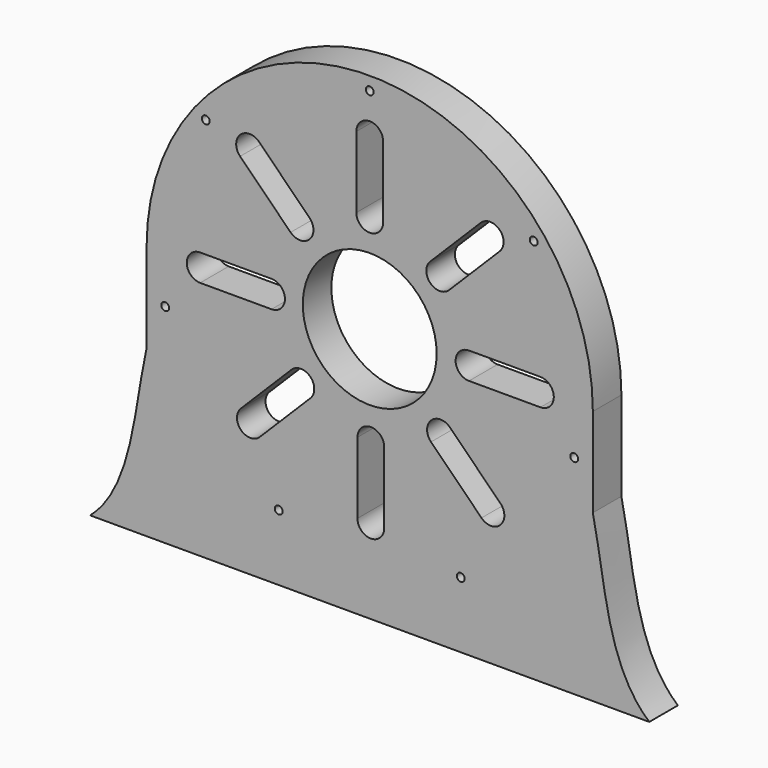
from build123d import *

# Parameters (mm, degrees)
F0_R     = 0.88
F0_R_2   = 15
F1_DEPTH = 8


with BuildPart() as f1:
    # F0 (on Front) → F1 (new body)
    with BuildSketch(Plane.XZ):
        with BuildLine():
            Line((50, -20), (50, 0))
            ThreePointArc((50, 0), (0, 50), (-50, 0))
            Line((-50, 0), (-50, -20))
            add(Edge.make_bspline(
                [(-50, -20), (-52.869719, -32.90493), (-53.054579, -48.802819), (-62.64351, -57.134003)],
                knots=[0, 0, 0, 0, 39.227446, 39.227446, 39.227446, 39.227446], degree=3))
            Line((-62.64351, -57.134003), (0, -57.134003))
            Line((0, -57.134003), (62.64351, -57.134003))
            add(Edge.make_bspline(
                [(50, -20), (52.869719, -32.90493), (53.054579, -48.802819), (62.64351, -57.134003)],
                knots=[0, 0, 0, 0, 39.227446, 39.227446, 39.227446, 39.227446], degree=3))
        make_face()
        with Locations((-20.392536, -42.345537)):
            Circle(F0_R, mode=Mode.SUBTRACT)
        with Locations((-45.821612, -10.458484)):
            Circle(F0_R, mode=Mode.SUBTRACT)
        with BuildLine():
            ThreePointArc((-24.623737, -29.293155), (-28.866378, -29.293155), (-28.866378, -25.050514))
            Line((-28.866378, -25.050514), (-17.55267, -13.736806))
            ThreePointArc((-17.55267, -13.736806), (-13.310029, -13.736806), (-13.310029, -17.979446))
            Line((-13.310029, -17.979446), (-24.623737, -29.293155))
        make_face(mode=Mode.SUBTRACT)
        with Locations((20.392536, -42.345537)):
            Circle(F0_R, mode=Mode.SUBTRACT)
        with BuildLine():
            ThreePointArc((3.25, -38.25), (0.25, -41.25), (-2.75, -38.25))
            Line((-2.75, -38.25), (-2.75, -22.25))
            ThreePointArc((-2.75, -22.25), (0.25, -19.25), (3.25, -22.25))
            Line((3.25, -22.25), (3.25, -38.25))
        make_face(mode=Mode.SUBTRACT)
        with BuildLine():
            ThreePointArc((29.293155, -24.873737), (29.293155, -29.116378), (25.050514, -29.116378))
            Line((25.050514, -29.116378), (13.736806, -17.80267))
            ThreePointArc((13.736806, -17.80267), (13.736806, -13.560029), (17.979446, -13.560029))
            Line((17.979446, -13.560029), (29.293155, -24.873737))
        make_face(mode=Mode.SUBTRACT)
        with Locations((45.821612, -10.458484)):
            Circle(F0_R, mode=Mode.SUBTRACT)
        with BuildLine():
            ThreePointArc((-38, -3.25), (-41, -0.25), (-38, 2.75))
            Line((-38, 2.75), (-22, 2.75))
            ThreePointArc((-22, 2.75), (-19, -0.25), (-22, -3.25))
            Line((-22, -3.25), (-38, -3.25))
        make_face(mode=Mode.SUBTRACT)
        Circle(F0_R_2, mode=Mode.SUBTRACT)
        with BuildLine():
            ThreePointArc((-29.043155, 24.623737), (-29.043155, 28.866378), (-24.800514, 28.866378))
            Line((-24.800514, 28.866378), (-13.486806, 17.55267))
            ThreePointArc((-13.486806, 17.55267), (-13.486806, 13.310029), (-17.729446, 13.310029))
            Line((-17.729446, 13.310029), (-29.043155, 24.623737))
        make_face(mode=Mode.SUBTRACT)
        with Locations((-36.74608, 29.304021)):
            Circle(F0_R, mode=Mode.SUBTRACT)
        with BuildLine():
            ThreePointArc((-3, 38), (0, 41), (3, 38))
            Line((3, 38), (3, 22))
            ThreePointArc((3, 22), (0, 19), (-3, 22))
            Line((-3, 22), (-3, 38))
        make_face(mode=Mode.SUBTRACT)
        with Locations((0, 47)):
            Circle(F0_R, mode=Mode.SUBTRACT)
        with BuildLine():
            ThreePointArc((38.25, 3), (41.25, 0), (38.25, -3))
            Line((38.25, -3), (22.25, -3))
            ThreePointArc((22.25, -3), (19.25, 0), (22.25, 3))
            Line((22.25, 3), (38.25, 3))
        make_face(mode=Mode.SUBTRACT)
        with BuildLine():
            ThreePointArc((24.873737, 29.043155), (29.116378, 29.043155), (29.116378, 24.800514))
            Line((29.116378, 24.800514), (17.80267, 13.486806))
            ThreePointArc((17.80267, 13.486806), (13.560029, 13.486806), (13.560029, 17.729446))
            Line((13.560029, 17.729446), (24.873737, 29.043155))
        make_face(mode=Mode.SUBTRACT)
        with Locations((36.74608, 29.304021)):
            Circle(F0_R, mode=Mode.SUBTRACT)
    extrude(amount=F1_DEPTH)


solid = f1.part
